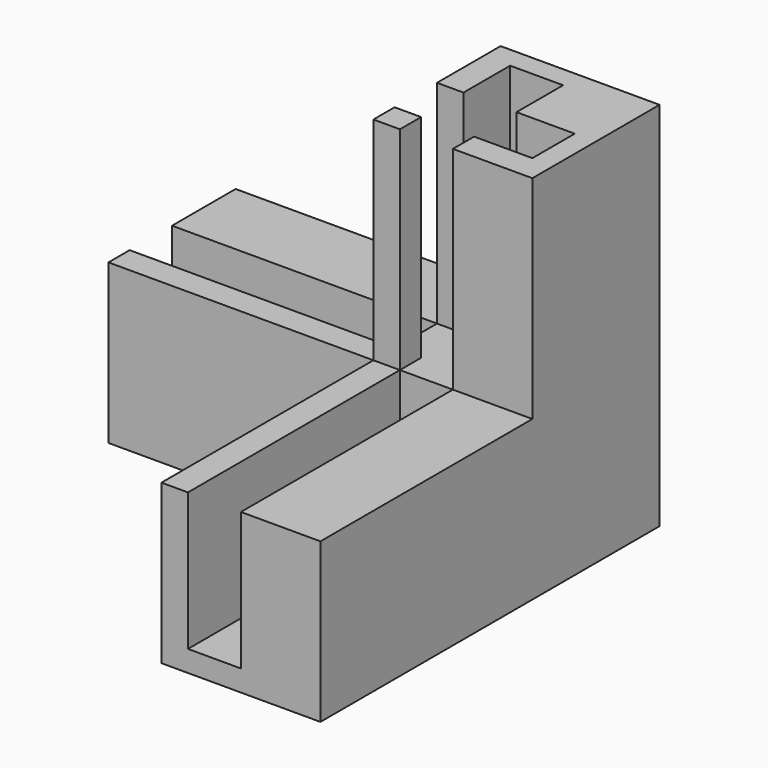
from build123d import *

# Parameters (mm, degrees)
F0_W      = 15
F0_H      = 15
F1_DEPTH  = 25
F2_W      = 15
F2_H      = 15
F3_DEPTH  = 25
F4_DEPTH  = 10
F5_W      = 15
F5_H      = 15
F6_DEPTH  = 25
F7_W      = 5
F7_H      = 13
F8_DEPTH  = 25
F9_W      = 13
F9_H      = 5
F10_DEPTH = 20
F11_W     = 5
F11_H     = 13
F12_DEPTH = 25
F13_W     = 5
F13_H     = 5.5
F13_H_2   = 2.5
F14_DEPTH = 20


with BuildPart() as f1:
    # F0 (on Top) → F1 (new body)
    with BuildSketch(Plane.XY):
        with Locations((7.5, -7.5)):
            Rectangle(F0_W, F0_H)
    extrude(amount=F1_DEPTH)

    # F2 (on face) → F3 (join)
    with BuildSketch(Plane.XZ.offset(15)):
        with Locations((7.5, 7.5)):
            Rectangle(F2_W, F2_H)
    extrude(amount=F3_DEPTH)

    # F4 (add): a face of the model
    f4_faces = [f1.faces().sort_by_distance(p)[0] for p in [
        (7.5, -7.5, 25),
    ]]
    extrude(f4_faces, amount=F4_DEPTH)

    # F5 (on face) → F6 (join)
    with BuildSketch(Plane(origin=(0, 0, 0), x_dir=(0, -1, 0), z_dir=(-1, 0, 0))):
        with Locations((7.5, 7.5)):
            Rectangle(F5_W, F5_H)
    extrude(amount=F6_DEPTH)

    # F7 (on face) → F8 (cut, through all)
    with BuildSketch(Plane(origin=(-25, 0, 0), x_dir=(0, -1, 0), z_dir=(-1, 0, 0))):
        with Locations((10, 8.5)):
            Rectangle(F7_W, F7_H)
    extrude(amount=-F8_DEPTH, mode=Mode.SUBTRACT)

    # F9 (on face) → F10 (cut, through all)
    with BuildSketch(Plane.XY.offset(35)):
        with Locations((6.5, -10)):
            Rectangle(F9_W, F9_H)
    extrude(amount=-F10_DEPTH, mode=Mode.SUBTRACT)

    # F11 (on face) → F12 (cut, through all)
    with BuildSketch(Plane.XZ.offset(40)):
        with Locations((5, 8.5)):
            Rectangle(F11_W, F11_H)
    extrude(amount=-F12_DEPTH, mode=Mode.SUBTRACT)

    # F13 (on face) → F14 (cut, through all)
    with BuildSketch(Plane.XY.offset(35)):
        with Locations((5, -4.75)):
            Rectangle(F13_W, F13_H)
        with Locations((5, -13.75)):
            Rectangle(F13_W, F13_H_2)
    extrude(amount=-F14_DEPTH, mode=Mode.SUBTRACT)


solid = f1.part
